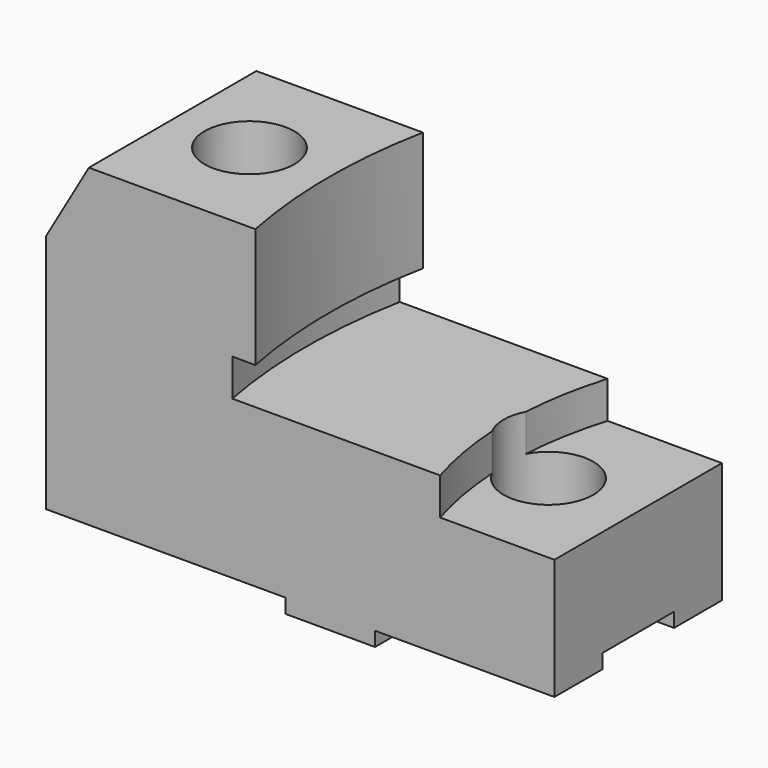
from build123d import *

# Parameters (mm, degrees)
F0_W            = 107.95
F0_H            = 69.85
F1_DEPTH        = 22.225
F2_W            = 50.8
F2_H            = 3.048
F2_W_2          = 38.1
F3_DEPTH        = 22.226
F3_DEPTH_BACK   = 22.226
F4_W            = 19.05
F4_H            = 6.096
F5_DEPTH        = 53.976
F5_DEPTH_BACK   = 53.976
F7_DEPTH        = 25.4
F8_R            = 119.126
F9_DEPTH        = 7.874
F10_R           = 76.2
F11_DEPTH       = 7.874
F14_D           = 12.7
F14_CBORE_D     = 19.05
F14_CBORE_DEPTH = 20.574
F15_D           = 12.7
F16_R           = 9.525
F17_DEPTH       = 20.574
F18_SIZE2       = 9.0921120392
F18_SIZE        = 15.748


with BuildPart() as f1:
    # F0 (on Front) → F1 (new body, symmetric)
    with BuildSketch(Plane.XZ):
        Rectangle(F0_W, F0_H)
    extrude(amount=F1_DEPTH, both=True)

    # F2 (on Front) → F3 (cut, two sides)
    with BuildSketch(Plane.XZ) as f3_sk:
        with Locations((-28.575, -33.401)):
            Rectangle(F2_W, F2_H)
        with Locations((34.925, -33.401)):
            Rectangle(F2_W_2, F2_H)
    extrude(amount=-F3_DEPTH, mode=Mode.SUBTRACT)
    extrude(f3_sk.sketch, amount=F3_DEPTH_BACK, mode=Mode.SUBTRACT)

    # F4 (on Right) → F5 (cut, two sides)
    with BuildSketch(Plane.YZ) as f5_sk:
        with Locations((0, -31.877)):
            Rectangle(F4_W, F4_H)
    extrude(amount=F5_DEPTH, mode=Mode.SUBTRACT)
    extrude(f5_sk.sketch, amount=-F5_DEPTH_BACK, mode=Mode.SUBTRACT)

    # F6 (on face) → F7 (cut)
    with BuildSketch(Plane.XY.offset(34.925)):
        with BuildLine():
            Line((53.975, 22.225), (-9.525, 22.225))
            ThreePointArc((-9.525, 22.225), (-11.7065832479, 0), (-9.525, -22.225))
            Line((-9.525, -22.225), (53.975, -22.225))
            Line((53.975, -22.225), (53.975, 22.225))
        make_face()
    extrude(amount=-F7_DEPTH, mode=Mode.SUBTRACT)

    # F8 (on face) → F9 (cut)
    with BuildSketch(Plane.XY.offset(9.525)):
        with Locations((102.5934167521, 0)):
            Circle(F8_R)
    extrude(amount=-F9_DEPTH, mode=Mode.SUBTRACT)

    # F10 (on face) → F11 (cut)
    with BuildSketch(Plane.XY.offset(1.651)):
        with Locations((102.5934167521, 0)):
            Circle(F10_R)
    extrude(amount=-F11_DEPTH, mode=Mode.SUBTRACT)

    # F14 (through all)
    with Locations(Plane.XY.offset(34.925)):
        with Locations((-28.575, 0)):
            CounterBoreHole(F14_D / 2, F14_CBORE_D / 2, F14_CBORE_DEPTH)

    # F15 (through all)
    with Locations(Plane.XY.offset(1.651)):
        with Locations((34.925, 0)):
            Hole(F15_D / 2)

    # F16 (on face) → F17 (cut)
    with BuildSketch(Plane.XY.offset(1.651)):
        with Locations((34.925, 0)):
            Circle(F16_R)
    extrude(amount=-F17_DEPTH, mode=Mode.SUBTRACT)

    # F18
    f18_edges = [f1.edges().sort_by_distance(p)[0] for p in [
        (-53.975, 0, 34.925),
    ]]
    f18_side = f1.faces().sort_by_distance((-53.975, 0, 2.159774))[0]
    chamfer(f18_edges, length=F18_SIZE, length2=F18_SIZE2, reference=f18_side)


solid = f1.part
